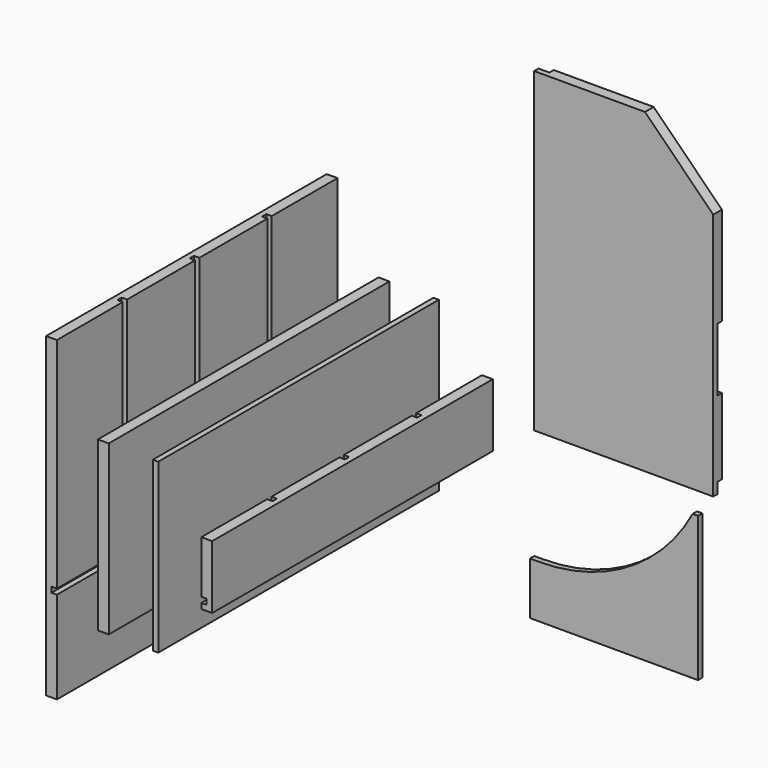
from build123d import *

# Parameters (mm, degrees)
F4_DEPTH  = 6
F5_DEPTH  = 12
F7_DEPTH  = 388
F6_W      = 6
F6_H      = 186
F6_W_2    = 12
F8_W      = 6
F8_H      = 242
F9_DEPTH  = 6
F10_W     = 6
F10_H     = 58
F11_DEPTH = 6
F13_DEPTH = 6


with BuildPart() as f4:
    # F3 (on Front) → F4 (new body)
    with BuildSketch(Plane.XZ):
        with BuildLine():
            Line((0, 350), (0, 0))
            Line((0, 0), (198, 0))
            Line((198, 0), (198, 12))
            Line((198, 12), (12, 12))
            Line((12, 12), (12, 102))
            Line((12, 102), (186, 102))
            Line((186, 102), (186, 96))
            ThreePointArc((186, 96), (188, 94), (190, 96))
            Line((190, 96), (198, 96))
            Line((198, 96), (198, 166))
            Line((198, 166), (190, 166))
            ThreePointArc((190, 166), (188, 168), (186, 166))
            Line((186, 166), (186, 108))
            Line((186, 108), (12, 108))
            Line((12, 108), (12, 350))
            Line((12, 350), (0, 350))
        make_face()
    extrude(amount=-F4_DEPTH)

    # F3 (on Front) → F5 (join)
    with BuildSketch(Plane.XZ):
        with BuildLine():
            Line((122.5340546095, 350), (12, 350))
            Line((12, 350), (12, 108))
            Line((12, 108), (186, 108))
            Line((186, 108), (186, 166))
            ThreePointArc((186, 166), (188, 168), (190, 166))
            Line((190, 166), (198, 166))
            Line((198, 166), (198, 274.5340546095))
            Line((198, 274.5340546095), (122.5340546095, 350))
        make_face()
        with BuildLine():
            Line((12, 12), (198, 12))
            Line((198, 12), (198, 96))
            Line((198, 96), (190, 96))
            ThreePointArc((190, 96), (188, 94), (186, 96))
            Line((186, 96), (186, 102))
            Line((186, 102), (12, 102))
            Line((12, 102), (12, 12))
        make_face()
    extrude(amount=-F5_DEPTH)


with BuildPart() as f7:
    # F6 (on Front) → F7 (new body)
    with BuildSketch(Plane.XZ):
        Polygon((-45.8658916792, 35), (-57.8658916792, 35), (-57.8658916792, -23), (-51.8658916792, -23), (-51.8658916792, -29), (-57.8658916792, -29), (-57.8658916792, -35), (-45.8658916792, -35), align=None)
    extrude(amount=F7_DEPTH)

    # F10 (on face) → F11 (cut)
    with BuildSketch(Plane(origin=(-57.8658916792, 0, 0), x_dir=(0, -1, 0), z_dir=(-1, 0, 0))):
        with Locations((194, 6)):
            Rectangle(F10_W, F10_H)
        with Locations((294, 6)):
            Rectangle(F10_W, F10_H)
        with Locations((94, 6)):
            Rectangle(F10_W, F10_H)
    extrude(amount=-F11_DEPTH, mode=Mode.SUBTRACT)


with BuildPart() as f7b:
    # F6 (on Front) → F7, piece 2 (new body)
    with BuildSketch(Plane.XZ):
        with Locations((-108.4803044796, 0)):
            Rectangle(F6_W, F6_H)
    extrude(amount=F7_DEPTH)


with BuildPart() as f7c:
    # F6 (on Front) → F7, piece 3 (new body)
    with BuildSketch(Plane.XZ):
        Polygon((-229.5767990351, -175), (-217.5767990351, -175), (-217.5767990351, -73), (-223.5767990351, -73), (-223.5767990351, -67), (-217.5767990351, -67), (-217.5767990351, 175), (-229.5767990351, 175), align=None)
    extrude(amount=F7_DEPTH)

    # F8 (on face) → F9 (cut)
    with BuildSketch(Plane.YZ.offset(-217.5767990351)):
        with Locations((-194, 54)):
            Rectangle(F8_W, F8_H)
        with Locations((-294, 54)):
            Rectangle(F8_W, F8_H)
        with Locations((-94, 54)):
            Rectangle(F8_W, F8_H)
    extrude(amount=-F9_DEPTH, mode=Mode.SUBTRACT)


with BuildPart() as f7d:
    # F6 (on Front) → F7, piece 4 (new body)
    with BuildSketch(Plane.XZ):
        with Locations((-166.2473380566, 0)):
            Rectangle(F6_W_2, F6_H)
    extrude(amount=F7_DEPTH)


with BuildPart() as f13:
    # F12 (on Front) → F13 (new body)
    with BuildSketch(Plane.XZ):
        with BuildLine():
            Line((10, -122.2314518392), (0, -122.2314518392))
            Line((0, -122.2314518392), (0, -180.2314518392))
            Line((0, -180.2314518392), (186, -180.2314518392))
            Line((186, -180.2314518392), (186, -20.2314518392))
            Line((186, -20.2314518392), (180, -20.2314518392))
            ThreePointArc((180, -20.2314518392), (109.1261822124, -94.7750888598), (10, -122.2314518392))
        make_face()
    extrude(amount=F13_DEPTH)


solid = Compound([f4.part, f7.part, f7b.part, f7c.part, f7d.part, f13.part])
